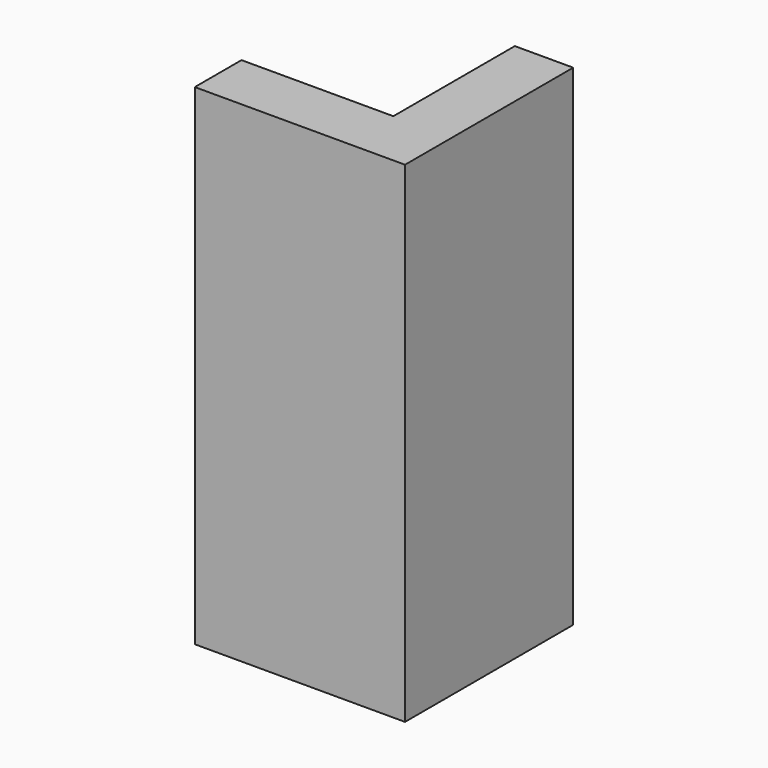
from build123d import *

# Parameters (mm, degrees)
BOX017_W          = 18
BOX017_H          = 18
BOX017_DEPTH      = 36
CYLINDER010_R     = 1
CYLINDER010_DEPTH = 70
BOX015_W          = 18
BOX015_H          = 18
BOX015_DEPTH      = 6
ARRAY007_Z_COUNT  = 2
ARRAY007_Z_PITCH  = 36
BOX016_W          = 18
BOX016_H          = 18
BOX016_DEPTH      = 36
BOX014_W          = 18
BOX014_H          = 18
BOX014_DEPTH      = 42
FILLET001_R       = 7


with BuildPart() as cube017:
    # Box017 → Box017 (new body)
    with BuildSketch(Plane(origin=(-2, 14, 3), x_dir=(1, 0, 0), z_dir=(0, 0, 1))):
        with Locations((9, 9)):
            Rectangle(BOX017_W, BOX017_H)
    extrude(amount=BOX017_DEPTH)


with BuildPart() as cylinder010:
    # Cylinder010 → Cylinder010 (new body)
    with BuildSketch(Plane(origin=(9, 9, -17), x_dir=(1, 0, 0), z_dir=(0, 0, 1))):
        Circle(CYLINDER010_R)
    extrude(amount=CYLINDER010_DEPTH)


with BuildPart() as array007:
    # Box015 → Box015 (new body)
    with BuildSketch(Plane(origin=(-5, 5, 0), x_dir=(1, 0, 0), z_dir=(0, 0, 1))):
        with Locations((9, 9)):
            Rectangle(BOX015_W, BOX015_H)
    extrude(amount=BOX015_DEPTH)

    # Array007 Z: Array007 ×2


with BuildPart() as array007_1:
    add(array007.part)
    with Locations(*[(0, 0, i * ARRAY007_Z_PITCH) for i in range(1, ARRAY007_Z_COUNT)]):
        add(array007.part)


with BuildPart() as cone002:
    # Cone002 → Cone002 (revolve)
    with BuildSketch(Plane(origin=(9, 9, 0), x_dir=(1, 0, 0), z_dir=(0, -1, 0))):
        Polygon((0, 0), (2.9, 0), (1.5, 3.5), (0, 3.5), align=None)
    revolve(axis=Axis((9, 9, 0), (0, 0, 1)))


with BuildPart() as cone003:
    # Cone003 → Cone003 (revolve)
    with BuildSketch(Plane(origin=(9, 9, 38.5), x_dir=(1, 0, 0), z_dir=(0, -1, 0))):
        Polygon((0, 0), (1.5, 0), (2.9, 3.5), (0, 3.5), align=None)
    revolve(axis=Axis((9, 9, 38.5), (0, 0, 1)))


with BuildPart() as fusion006:
    # Box016 → Box016 (new body)
    with BuildSketch(Plane(origin=(-14, 2, 3), x_dir=(1, 0, 0), z_dir=(0, 0, 1))):
        with Locations((9, 9)):
            Rectangle(BOX016_W, BOX016_H)
    extrude(amount=BOX016_DEPTH)

    # Fusion006: union Cube017, Cylinder010, Array007, Cone002, Cone003
    add(cube017.part)
    add(cylinder010.part)
    add(array007_1.part)
    add(cone002.part)
    add(cone003.part)


with BuildPart() as fillet001:
    # Box014 → Box014 (new body)
    with BuildSketch(Plane.XY):
        with Locations((9, 9)):
            Rectangle(BOX014_W, BOX014_H)
    extrude(amount=BOX014_DEPTH)

    # Cut007: cut Fusion006
    add(fusion006.part, mode=Mode.SUBTRACT)

    # Fillet001
    fillet001_edges = [fillet001.edges().sort_by_distance(p)[0] for p in [
        (4, 14, 21),
    ]]
    fillet(fillet001_edges, radius=FILLET001_R)


solid = fillet001.part
